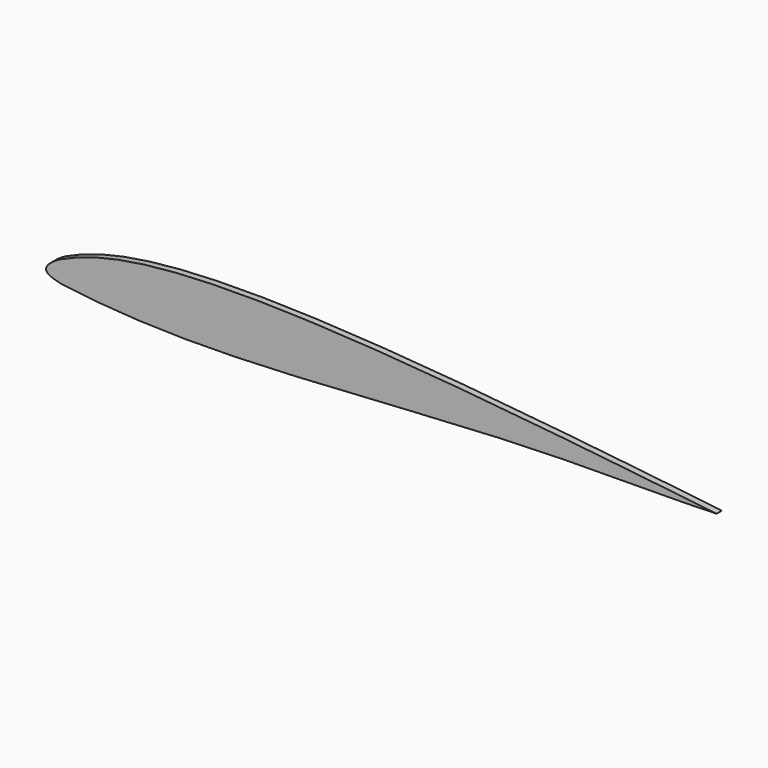
from build123d import *

# Parameters (mm, degrees)
F1_DEPTH = 2


with BuildPart() as f1:
    # F0 (on Front) → F1 (new body)
    with BuildSketch(Plane.XZ):
        with BuildLine():
            add(Edge.make_bspline(
                [(-96.9805282175, -0.8100506688), (-84.7869920978, 5.1468541776), (-38.6381415733, 10.9636146396), (42.6881882799, 2.4723259958), (100, -4.047003109)],
                knots=[0, 0, 0, 0, 0.374886421, 1, 1, 1, 1], degree=3))
            add(Edge.make_bspline(
                [(-97.5447368223, -7.1186651935), (-99.939251346, -6.5508492693), (-102.885147974, -5.168950634), (-100.0067471137, -2.3789404522), (-96.9805282175, -0.8100506688)],
                knots=[0.0564585679, 0.0564585679, 0.0564585679, 0.0564585679, 0.4847104148, 1, 1, 1, 1], degree=3))
            add(Edge.make_bspline(
                [(-96.5428845142, -7.3406707446), (-96.8949965543, -7.2673488468), (-97.22905608, -7.1935231869), (-97.5447368223, -7.1186651935)],
                knots=[0, 0, 0, 0, 0.0564585679, 0.0564585679, 0.0564585679, 0.0564585679], degree=3))
            add(Edge.make_bspline(
                [(-96.5428845142, -7.3406707446), (-80.7020161693, -9.4302402111), (-44.2471235075, -11.1181020976), (41.8622965332, -3.5518856086), (82.0915186506, -4.6802794425), (100, -4.047003109)],
                knots=[0, 0, 0, 0, 0.2987594418, 0.6837410955, 1, 1, 1, 1], degree=3))
        make_face()
        with BuildLine():
            add(Edge.make_bspline(
                [(-96.5428845142, -7.3406707446), (-96.8949965543, -7.2673488468), (-97.22905608, -7.1935231869), (-97.5447368223, -7.1186651935)],
                knots=[0, 0, 0, 0, 0.0564585679, 0.0564585679, 0.0564585679, 0.0564585679], degree=3))
            ThreePointArc((-97.5447368223, -7.1186651935), (-97.052492706, -7.2688477084), (-96.5428845142, -7.3406707446))
        make_face()
    extrude(amount=F1_DEPTH)


solid = f1.part
